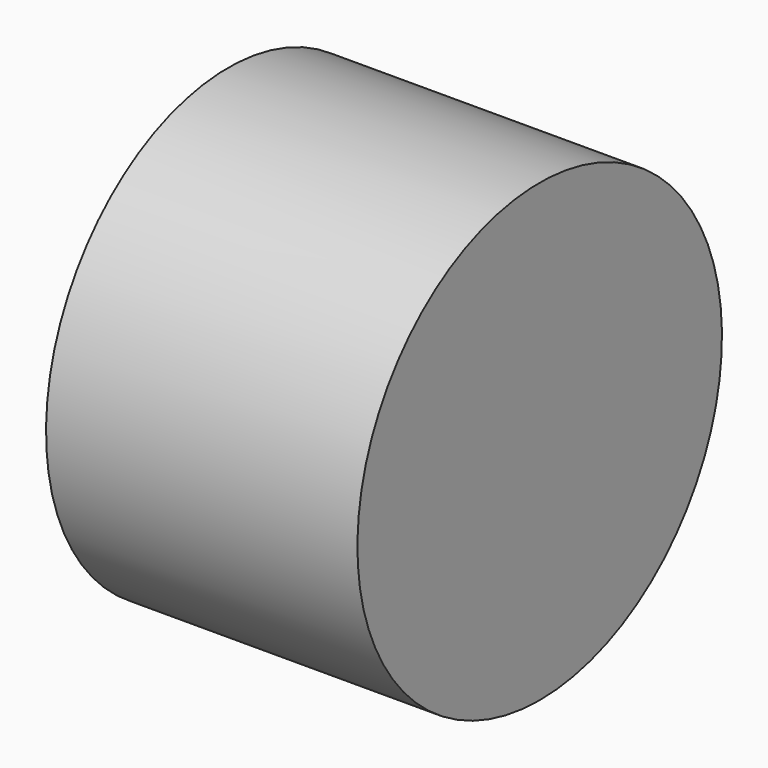
from build123d import *

# Parameters (mm, degrees)
CYLINDER058_R     = 1.25
CYLINDER058_DEPTH = 5
CYLINDER036_R     = 3
CYLINDER036_DEPTH = 4.1


with BuildPart() as b_w005:
    # Cylinder058 → Cylinder058 (new body)
    with BuildSketch(Plane(origin=(2, 16, 7), x_dir=(0, 0, 1), z_dir=(-1, 0, 0))):
        Circle(CYLINDER058_R)
    extrude(amount=CYLINDER058_DEPTH)


with BuildPart() as cut030:
    # Cylinder036 → Cylinder036 (new body)
    with BuildSketch(Plane(origin=(-1, 16, 7), x_dir=(0, 0, -1), z_dir=(1, 0, 0))):
        Circle(CYLINDER036_R)
    extrude(amount=CYLINDER036_DEPTH)

    # Cut030: cut B_W005
    add(b_w005.part, mode=Mode.SUBTRACT)


solid = cut030.part
